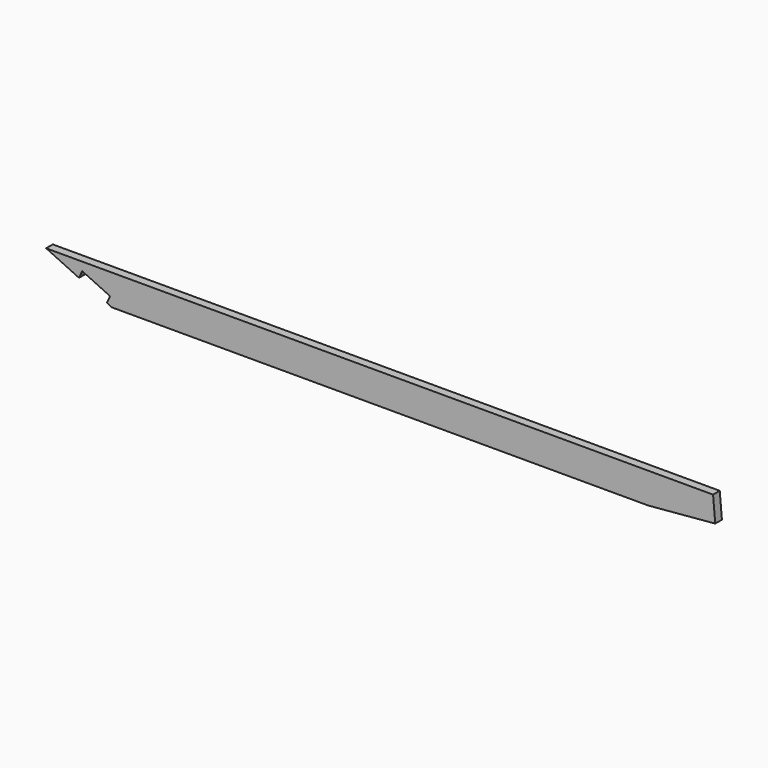
from build123d import *

# Parameters (mm, degrees)
F0_W     = 3048
F0_H     = 139.7
F1_DEPTH = 38.1
F3_DEPTH = 38.101
F5_DEPTH = 38.1


with BuildPart() as f1:
    # F0 (on Front) → F1 (new body)
    with BuildSketch(Plane.XZ):
        with Locations((1524, 69.85)):
            Rectangle(F0_W, F0_H)
    extrude(amount=F1_DEPTH)

    # F2 (on Front) → F3 (cut, through all)
    with BuildSketch(Plane.XZ):
        Polygon((149.956201, 69.774275), (0, 139.7), (0, 0), (299.587617, 0), (276.567399, 10.734504), (291.327342, 42.387303), (164.716144, 101.427074), align=None)
        Polygon((3048, 0), (3048, 26.666545), (2743.2, 0), align=None)
    extrude(amount=F3_DEPTH, mode=Mode.SUBTRACT)

    # F4 (on face) → F5 (cut)
    with BuildSketch(Plane.XZ.offset(38.1)):
        Polygon((3038.110854, 139.7), (3048, 26.666545), (3048, 139.7), align=None)
    extrude(amount=-F5_DEPTH, mode=Mode.SUBTRACT)


solid = f1.part
